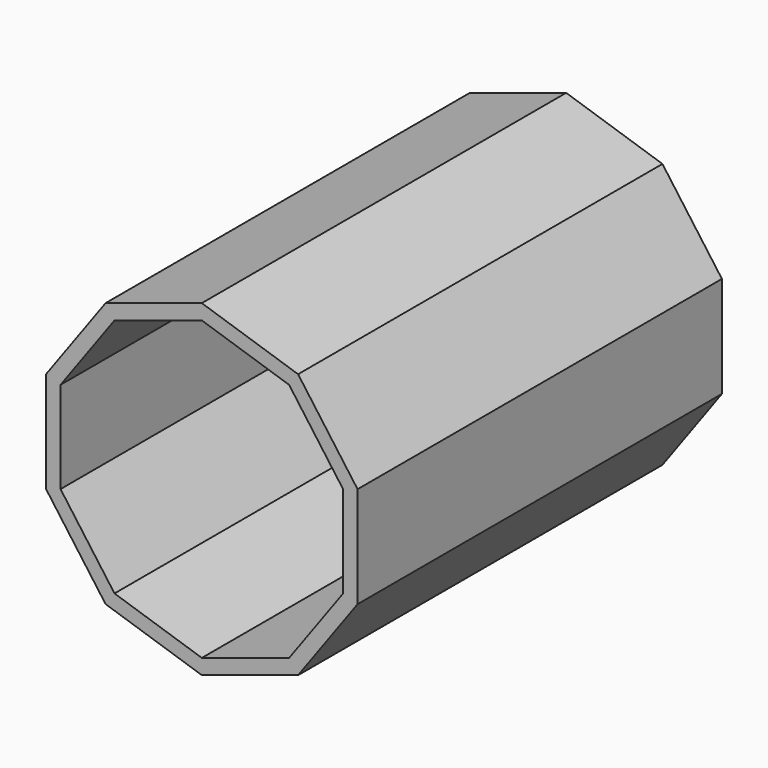
from build123d import *

# Parameters (mm, degrees)
F1_DEPTH = 228.6
F2_T     = -7.257143


with BuildPart() as f1:
    # F0 (on Front) → F1 (new body)
    with BuildSketch(Plane.XZ):
        Polygon((-74.641859, 25.4), (-74.641859, -25.4), (-44.782368, -66.498063), (3.531303, -82.196127), (51.844974, -66.498063), (81.704465, -25.4), (81.704465, 25.4), (51.844974, 66.498063), (3.531303, 82.196127), (-44.782368, 66.498063), align=None)
    extrude(amount=F1_DEPTH)

    # F2
    f2_openings = [f1.faces().sort_by_distance(p)[0] for p in [
        (3.531303, -228.6, 0),
    ]]
    offset(amount=F2_T, openings=f2_openings)


solid = f1.part
